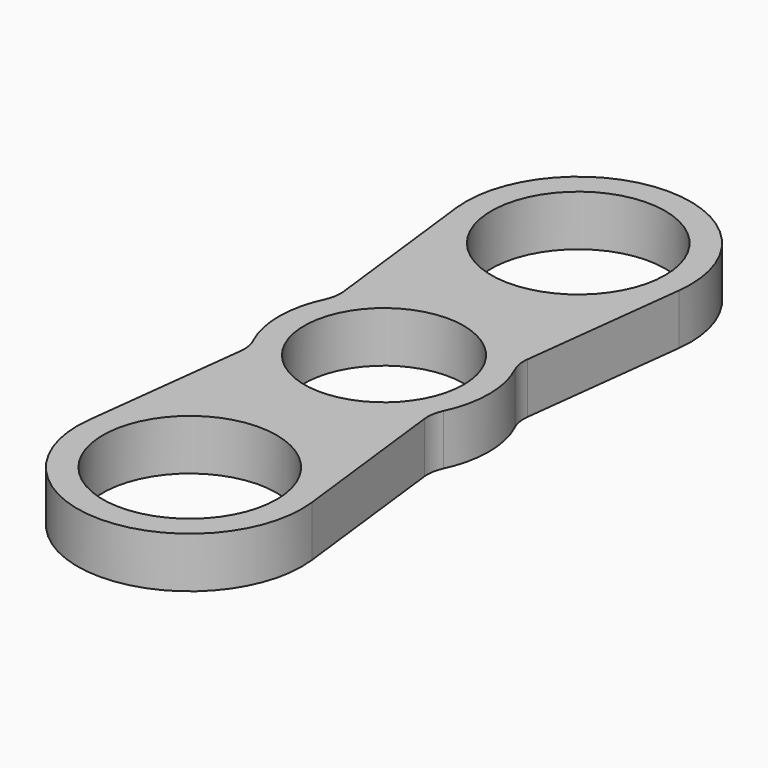
from build123d import *

# Parameters (mm, degrees)
F0_R     = 12
F0_R_2   = 11
F1_DEPTH = 7


with BuildPart() as f1:
    # F0 (on Top) → F1 (new body)
    with BuildSketch(Plane.XY):
        with BuildLine():
            ThreePointArc((-12.676684, 8.900213), (-12.705965, 7.508036), (-13.118051, 6.177923))
            ThreePointArc((-13.118051, 6.177923), (-14.5, 0), (-13.118051, -6.177923))
            ThreePointArc((-13.118051, -6.177923), (-12.705965, -7.508036), (-12.676684, -8.900213))
            Line((-12.676684, -8.900213), (-15.390983, -31.664888))
            ThreePointArc((-15.390983, -31.664888), (0, -49), (15.390983, -31.664888))
            Line((15.390983, -31.664888), (12.676684, -8.900213))
            ThreePointArc((12.676684, -8.900213), (12.705965, -7.508036), (13.118051, -6.177923))
            ThreePointArc((13.118051, -6.177923), (14.5, 0), (13.118051, 6.177923))
            ThreePointArc((13.118051, 6.177923), (12.705965, 7.508036), (12.676684, 8.900213))
            Line((12.676684, 8.900213), (15.390983, 31.664888))
            ThreePointArc((15.390983, 31.664888), (0, 49), (-15.390983, 31.664888))
            Line((-15.390983, 31.664888), (-12.676684, 8.900213))
        make_face()
        with Locations((0, -33.5)):
            Circle(F0_R, mode=Mode.SUBTRACT)
        Circle(F0_R_2, mode=Mode.SUBTRACT)
        with Locations((0, 33.5)):
            Circle(F0_R, mode=Mode.SUBTRACT)
    extrude(amount=F1_DEPTH)


solid = f1.part
